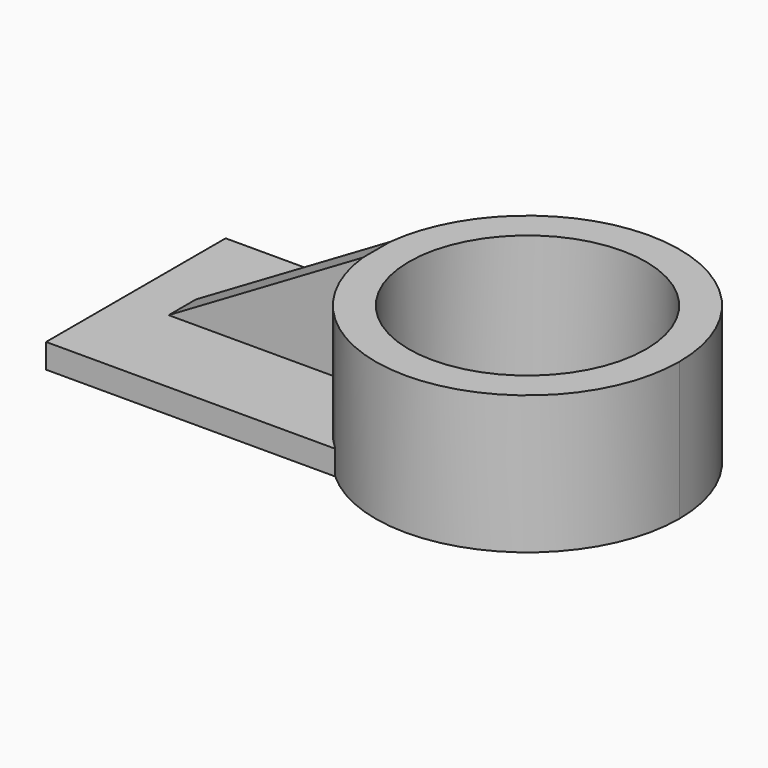
from build123d import *

# Parameters (mm, degrees)
F0_R     = 35.7057277328
F1_DEPTH = 41.656
F2_R     = 35.7057277328
F3_DEPTH = 34.29
F5_DEPTH = 25.4


with BuildPart() as f1:
    # F0 (on Top) → F1 (new body)
    with BuildSketch(Plane.XY):
        with BuildLine():
            Line((28.1166336854, 33.8129214942), (-58.9986741543, 33.8129214942))
            Line((-58.9986741543, 33.8129214942), (-58.9986741543, -33.8129214942))
            Line((-58.9986741543, -33.8129214942), (28.1166336854, -33.8129214942))
            ThreePointArc((28.1166336854, -33.8129214942), (13.2055078137, 0), (28.1166336854, 33.8129214942))
        make_face()
        with BuildLine():
            ThreePointArc((104.7918404949, 0), (77.4760612446, 41.8998836492), (28.1166336854, 33.8129214942))
            ThreePointArc((28.1166336854, 33.8129214942), (13.2055078137, 0), (28.1166336854, -33.8129214942))
            ThreePointArc((28.1166336854, -33.8129214942), (77.4760612446, -41.8998836492), (104.7918404949, 0))
        make_face()
        with Locations((58.9986741543, 0)):
            Circle(F0_R, mode=Mode.SUBTRACT)
    extrude(amount=F1_DEPTH)

    # F2 (on face) → F3 (cut)
    with BuildSketch(Plane.XY.offset(41.656)):
        with Locations((58.9986741543, 0)):
            Circle(F2_R)
        with BuildLine():
            ThreePointArc((13.4958462684, 5.1484694704), (18.2056020605, 20.8071947328), (28.1166336854, 33.8129214942))
            Line((28.1166336854, 33.8129214942), (-58.9986741543, 33.8129214942))
            Line((-58.9986741543, 33.8129214942), (-58.9986741543, -33.8129214942))
            Line((-58.9986741543, -33.8129214942), (28.1166336854, -33.8129214942))
            ThreePointArc((28.1166336854, -33.8129214942), (18.2056020605, -20.8071947328), (13.4958462684, -5.1484694704))
            Line((13.4958462684, -5.1484694704), (-45.0028181076, -5.1484694704))
            Line((-45.0028181076, -5.1484694704), (-45.0028181076, 5.1484694704))
            Line((-45.0028181076, 5.1484694704), (13.4958462684, 5.1484694704))
        make_face()
    extrude(amount=-F3_DEPTH, mode=Mode.SUBTRACT)

    # F4 (on face) → F5 (cut)
    with BuildSketch(Plane.XZ.offset(5.1484694704)):
        Polygon((-45.0028181076, 7.366), (13.4958462684, 41.656), (-45.0028181076, 41.656), align=None)
    extrude(amount=-F5_DEPTH, mode=Mode.SUBTRACT)


solid = f1.part
